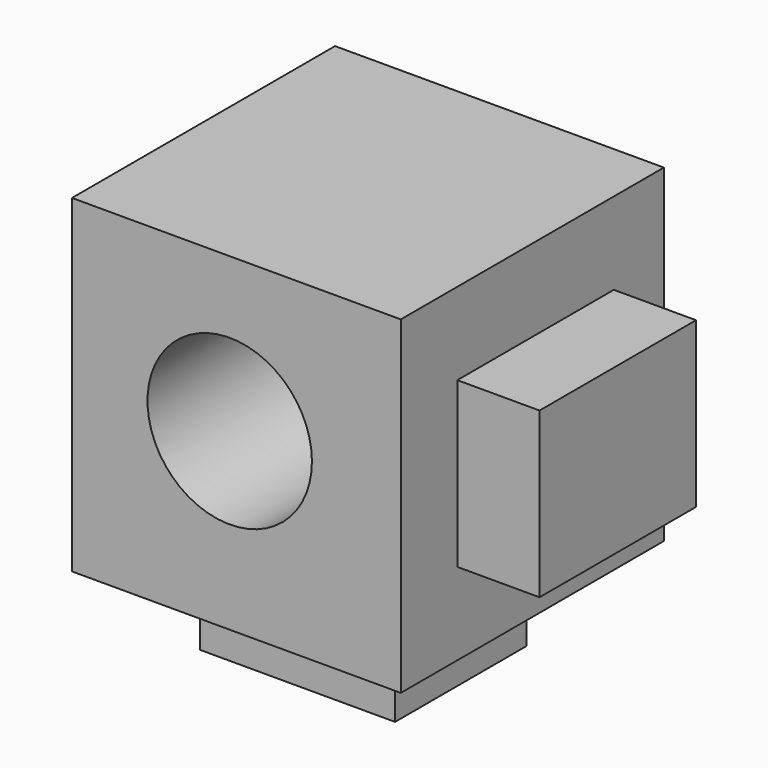
from build123d import *

# Parameters (mm, degrees)
F1_W     = 50.8
F1_H     = 50.8
F1_R     = 12.7
F2_DEPTH = 50.8
F3_W     = 30.162047
F3_H     = 25.4
F4_DEPTH = 12.7
F5_W     = 30.217611
F5_H     = 25.4
F6_DEPTH = 12.7


with BuildPart() as f2:
    # F1 (on face) → F2 (new body)
    with BuildSketch(Plane.XZ):
        with Locations((25.4, 25.4)):
            Rectangle(F1_W, F1_H)
        with Locations((24.368526, 27.008452)):
            Circle(F1_R, mode=Mode.SUBTRACT)
    extrude(amount=F2_DEPTH)

    # F3 (on face) → F4 (join)
    with BuildSketch(Plane(origin=(0, 0, 0), x_dir=(1, 0, 0), z_dir=(0, 0, -1))):
        with Locations((24.673132, 25.4)):
            Rectangle(F3_W, F3_H)
    extrude(amount=F4_DEPTH)

    # F5 (on face) → F6 (join)
    with BuildSketch(Plane.YZ.offset(50.8)):
        with Locations((-24.774669, 25.4)):
            Rectangle(F5_W, F5_H)
    extrude(amount=F6_DEPTH)


solid = f2.part
